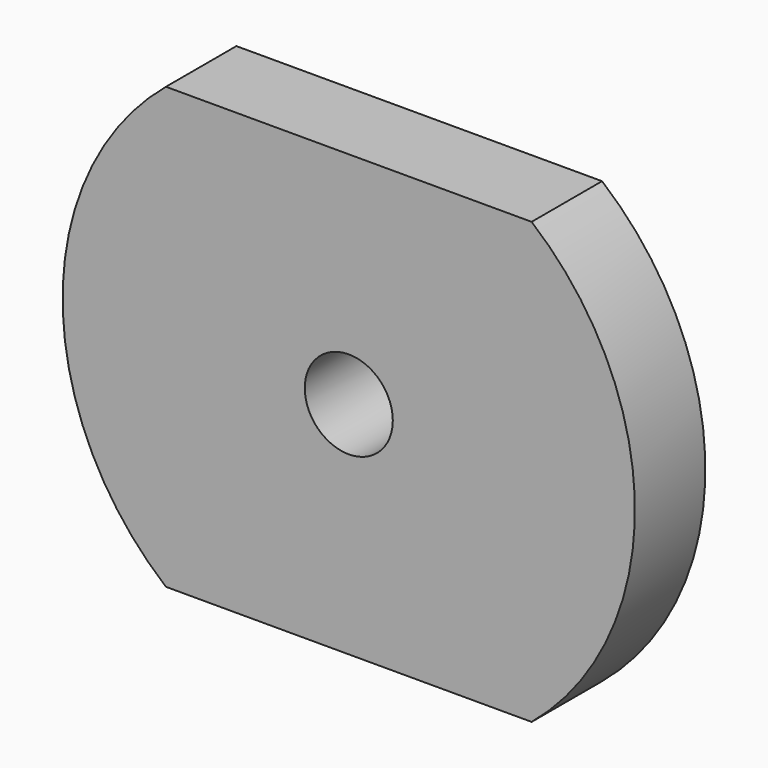
from build123d import *

# Parameters (mm, degrees)
F0_R     = 1
F1_DEPTH = 2


with BuildPart() as f1:
    # F0 (on Front) → F1 (new body)
    with BuildSketch(Plane.XZ):
        with BuildLine():
            Line((3.773731, 5), (-4.153312, 5))
            ThreePointArc((-4.153312, 5), (-6.5, 0), (-4.153312, -5))
            Line((-4.153312, -5), (3.773731, -5))
            Line((3.773731, -5), (4.153312, -5))
            ThreePointArc((4.153312, -5), (6.5, 0), (4.153312, 5))
            Line((4.153312, 5), (3.773731, 5))
        make_face()
        Circle(F0_R, mode=Mode.SUBTRACT)
    extrude(amount=F1_DEPTH)


solid = f1.part
